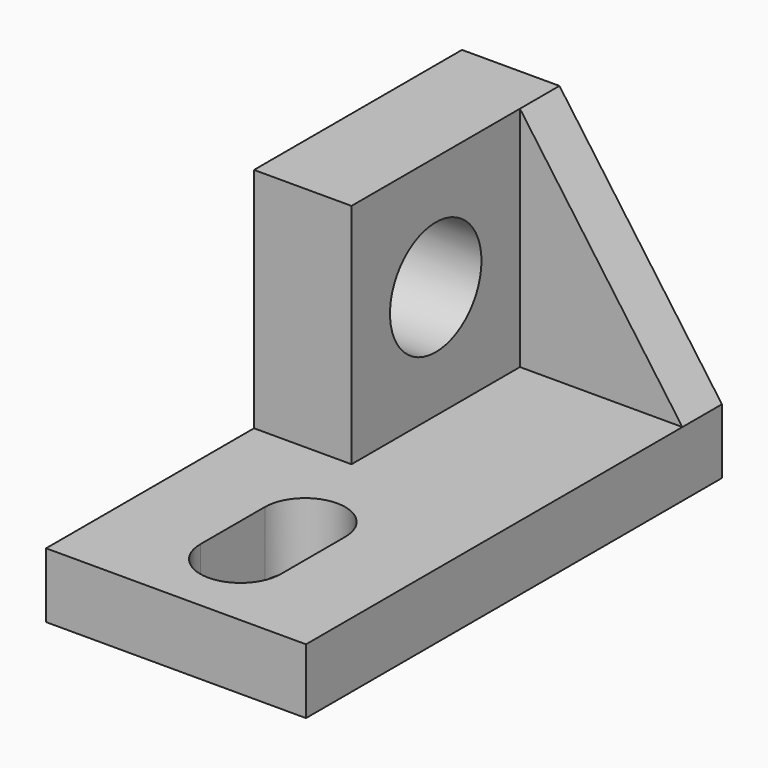
from build123d import *

# Parameters (mm, degrees)
F0_W      = 50.8
F0_H      = 101.6
F1_DEPTH  = 12.7
F2_W      = 19.05
F2_H      = 50.8
F3_DEPTH  = 44.45
F5_DEPTH  = 25.4
F6_W      = 31.75
F6_H      = 9.652
F7_DEPTH  = 44.45
F8_SIZE2  = 31.7503775051
F8_SIZE   = 44.45
F9_R      = 11.176
F10_DEPTH = 25.4


with BuildPart() as f1:
    # F0 (on Top) → F1 (new body)
    with BuildSketch(Plane.XY):
        with Locations((5.7387277484, 35.3047995863)):
            Rectangle(F0_W, F0_H)
    extrude(amount=F1_DEPTH)

    # F2 (on face) → F3 (join)
    with BuildSketch(Plane.XY.offset(12.7)):
        with Locations((-10.1362722516, 60.7047995863)):
            Rectangle(F2_W, F2_H)
    extrude(amount=F3_DEPTH)

    # F4 (on face) → F5 (cut)
    with BuildSketch(Plane.XY.offset(12.7)):
        with BuildLine():
            Line((-2.1200233605, 16.0007995863), (-2.1200233605, 0.2527995863))
            ThreePointArc((-2.1200233605, 0.2527995863), (5.7539766395, -7.6212004137), (13.6279766395, 0.2527995863))
            Line((13.6279766395, 0.2527995863), (13.6279766395, 16.0007995863))
            ThreePointArc((13.6279766395, 16.0007995863), (5.7539766395, 23.8747995863), (-2.1200233605, 16.0007995863))
        make_face()
    extrude(amount=-F5_DEPTH, mode=Mode.SUBTRACT)

    # F6 (on face) → F7 (join)
    with BuildSketch(Plane.XY.offset(12.7)):
        with Locations((15.2637277484, 81.2787995863)):
            Rectangle(F6_W, F6_H)
    extrude(amount=F7_DEPTH)

    # F8
    f8_edges = [f1.edges().sort_by_distance(p)[0] for p in [
        (31.138728, 81.2788, 57.15),
    ]]
    f8_side = f1.faces().sort_by_distance((31.138728, -14.329495, 6.35))[0]
    chamfer(f8_edges, length=F8_SIZE, length2=F8_SIZE2, reference=f8_side)

    # F9 (on face) → F10 (cut)
    with BuildSketch(Plane.YZ.offset(-0.6112722516)):
        with Locations((55.8787995863, 34.798)):
            Circle(F9_R)
    extrude(amount=-F10_DEPTH, mode=Mode.SUBTRACT)


solid = f1.part
